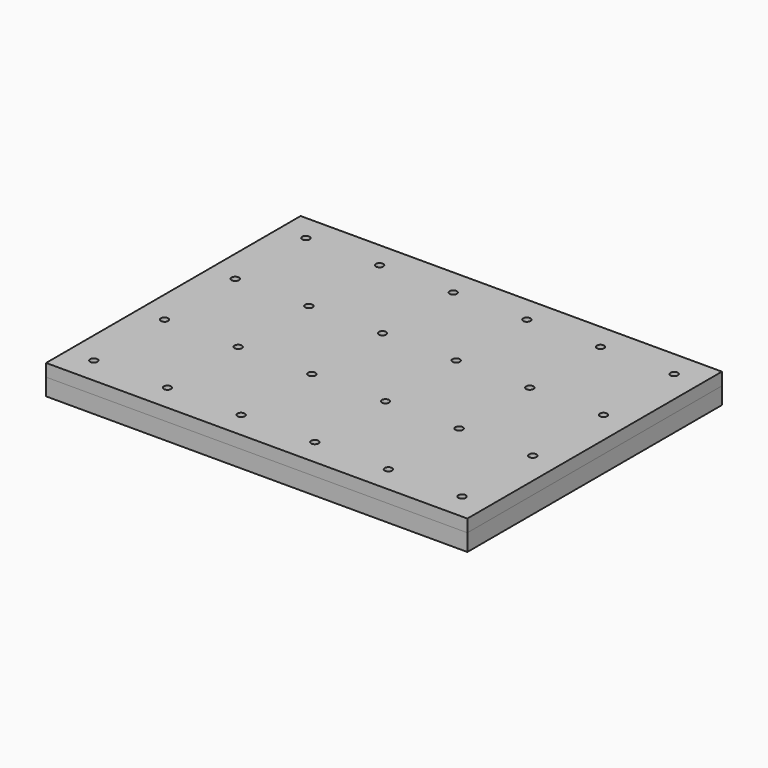
from build123d import *

# Parameters (mm, degrees)
F2_START       = -17
F1_W           = 572
F1_H           = 432
F1_W_2         = 500
F1_H_2         = 360
F2_DEPTH       = 23
F3_DEPTH       = 17
F4_D           = 5
F5_D           = 6
F5_CBORE_D     = 10
F5_CBORE_DEPTH = 6


with BuildPart() as f2:
    # F1 (on Top) → F2 (new body)
    with BuildSketch(Plane.XY.offset(F2_START)):
        with Locations((250, 180)):
            Rectangle(F1_W, F1_H)
        with Locations((250, 180)):
            Rectangle(F1_W_2, F1_H_2, mode=Mode.SUBTRACT)
        with Locations((250, 180)):
            Rectangle(F1_W_2, F1_H_2)
    extrude(amount=-F2_DEPTH)


with BuildPart() as f3:
    # F3 (new, through all): a face of the model
    f3_faces = [f2.part.faces().sort_by_distance(p)[0] for p in [
        (250, 180, -17),
    ]]
    extrude(f3_faces, amount=F3_DEPTH)

    # F5 (through all)
    with Locations(Plane.XY):
        with Locations((0, 120), (0, 240), (300, 240), (100, 360), (500, 120), (400, 120), (0, 360), (400, 240), (200, 240), (500, 0), (400, 360), (100, 120), (500, 360), (100, 240), (400, 0), (300, 360), (0, 0), (200, 0), (100, 0), (300, 120), (200, 120), (300, 0), (500, 240), (200, 360)):
            CounterBoreHole(F5_D / 2, F5_CBORE_D / 2, F5_CBORE_DEPTH)


with BuildPart() as f2_1:
    add(f2.part)

    # F4 (through all)
    with Locations(Plane.XY):
        with Locations((100, 360), (300, 120), (500, 0), (300, 360), (100, 120), (200, 240), (500, 360), (300, 0), (400, 0), (200, 0), (500, 240), (200, 120), (200, 360), (0, 240), (100, 0), (400, 120), (100, 240), (0, 120), (500, 120), (400, 240), (300, 240), (0, 360), (0, 0), (400, 360)):
            Hole(F4_D / 2)


solid = Compound([f3.part, f2_1.part])
